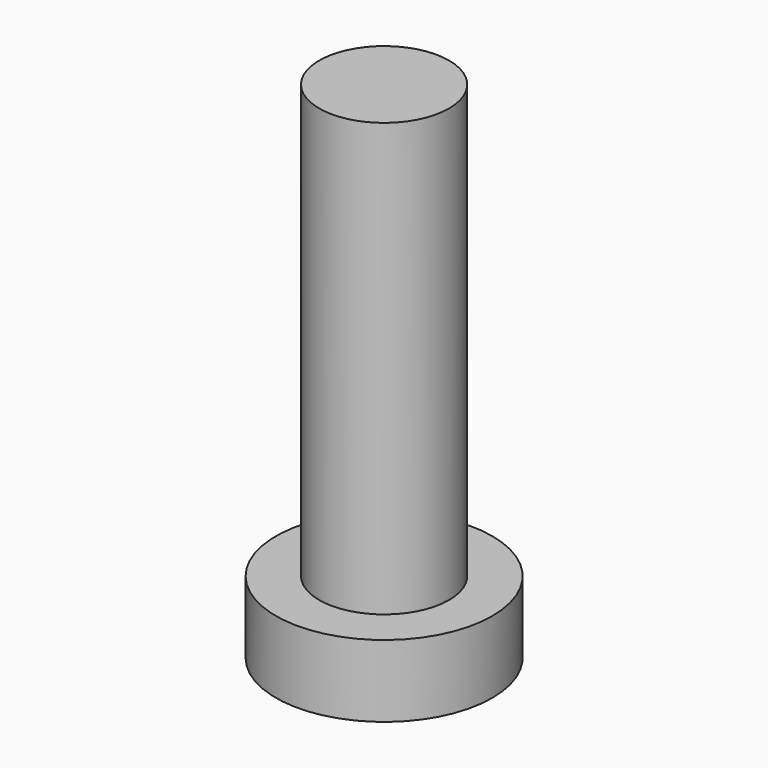
from build123d import *

# Parameters (mm, degrees)
F0_R     = 2.251112
F1_DEPTH = 17.5
F2_R     = 3.75
F3_DEPTH = 2.5


with BuildPart() as f1:
    # F0 (on Top) → F1 (new body)
    with BuildSketch(Plane.XY):
        with Locations((-4.177049, 1.877469)):
            Circle(F0_R)
    extrude(amount=F1_DEPTH)

    # F2 (on face) → F3 (join)
    with BuildSketch(Plane(origin=(0, 0, 0), x_dir=(1, 0, 0), z_dir=(0, 0, -1))):
        with Locations((-4.177049, -1.877469)):
            Circle(F2_R)
    extrude(amount=-F3_DEPTH)


solid = f1.part
